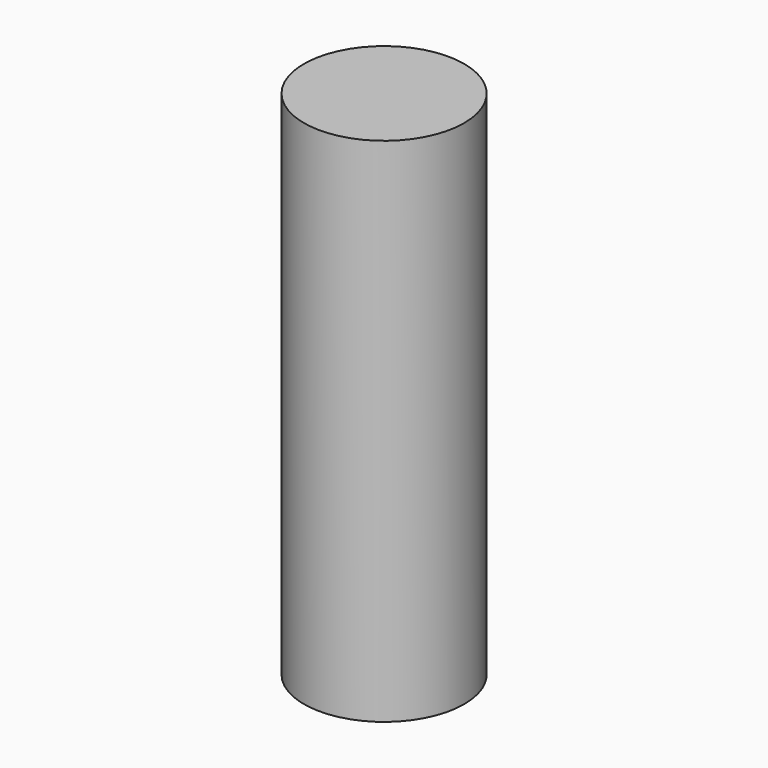
from build123d import *

# Parameters (mm, degrees)
CYLINDER_R     = 2.3495
CYLINDER_DEPTH = 15


with BuildPart() as part:
    # Cylinder → Cylinder (new body)
    with BuildSketch(Plane.XY.offset(-2.5)):
        Circle(CYLINDER_R)
    extrude(amount=CYLINDER_DEPTH)


solid = part.part
